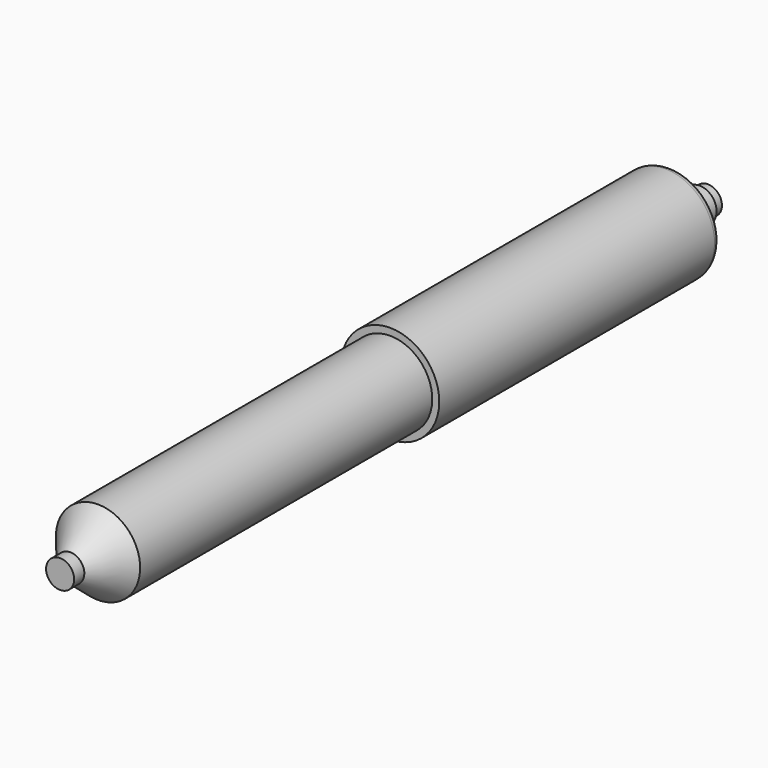
from build123d import *

# Parameters (mm, degrees)
F2_R = 1.5875


with BuildPart() as f1:
    # F0 (on Right) → F1 (revolve)
    with BuildSketch(Plane.YZ):
        Polygon((26.495798, 9.525), (-56.054202, 9.525), (-63.891962, 3.175), (-66.766024, 3.175), (-66.766024, 0), (116.299428, 0), (116.299428, 3.175), (114.344887, 3.175), (113.927528, 3.871835), (111.632071, 3.871835), (111.085113, 3.175), (107.510671, 3.175), (106.936805, 3.871835), (105.870798, 3.871835), (105.870798, 11.1125), (26.495798, 11.1125), align=None)
    revolve(axis=Axis((0, 24.766702, 0), (0, 1, 0)))

    # F2
    f2_edges = [f1.edges().sort_by_distance(p)[0] for p in [
        (0, 105.870798, -11.1125),
    ]]
    fillet(f2_edges, radius=F2_R)


solid = f1.part
